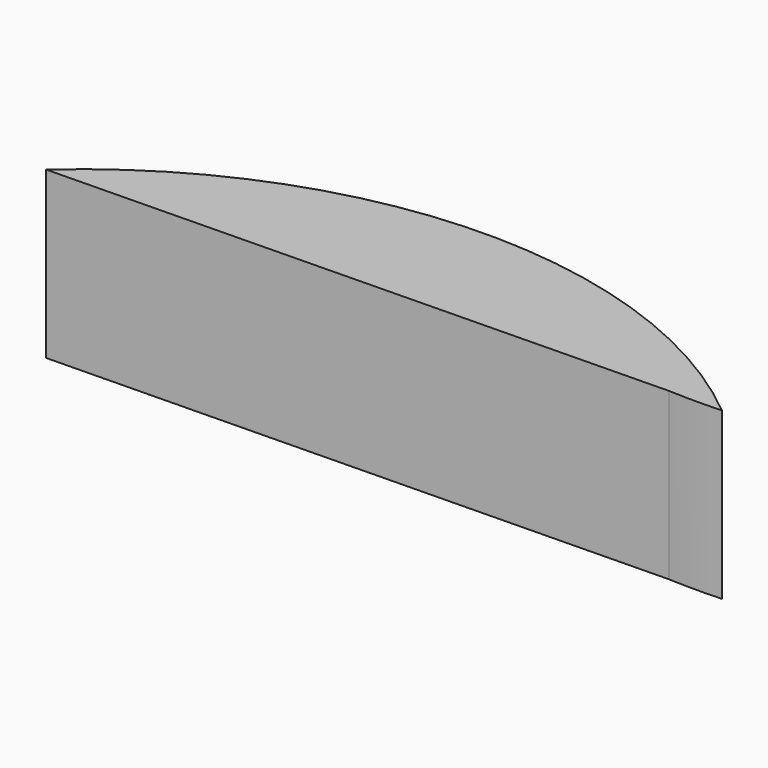
from build123d import *

# Parameters (mm, degrees)
F1_DEPTH = 25.4


with BuildPart() as f1:
    # F0 (on Top) → F1 (new body)
    with BuildSketch(Plane.XY):
        with BuildLine():
            ThreePointArc((-8.080974, 0), (-4.040487, -0.098253), (0, 0))
            ThreePointArc((0, 0), (-51.36849, 18.036332), (-102.079992, -1.772113))
            Line((-102.079992, -1.772113), (-8.080974, 0))
        make_face()
    extrude(amount=F1_DEPTH)


solid = f1.part
